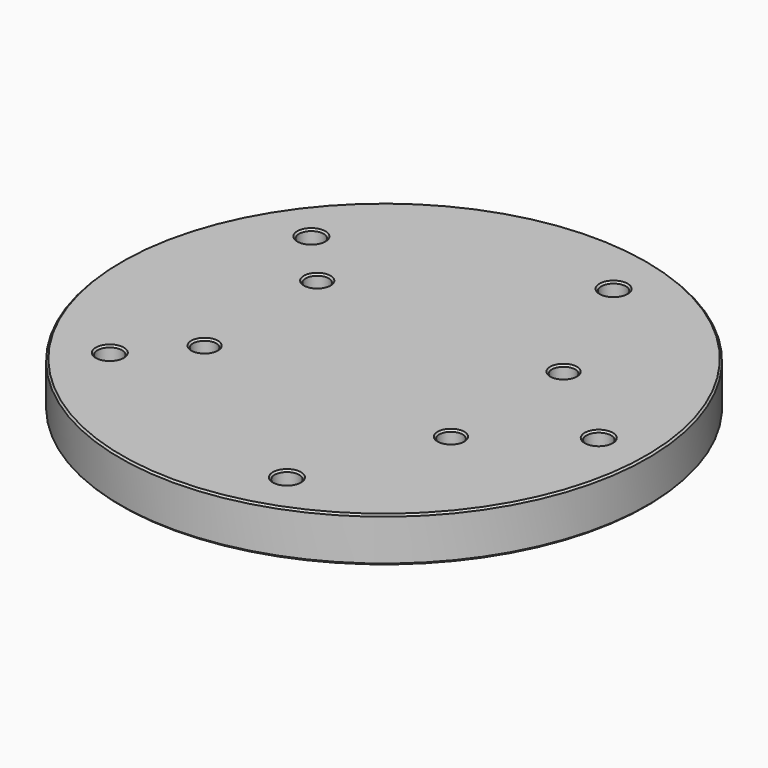
from build123d import *

# Parameters (mm, degrees)
F0_R           = 75
F1_DEPTH       = 12.7
F2_D           = 6.6
F2_CBORE_D     = 11.25
F2_CBORE_DEPTH = 6
F4_D           = 7
F5_SIZE        = 0.5
F7_ANGLE       = -90


with BuildPart() as f1:
    # F0 (on Top) → F1 (new body)
    with BuildSketch(Plane.XY):
        Circle(F0_R)
    extrude(amount=F1_DEPTH)

    # F2 (through all)
    with Locations(Plane(origin=(0, 0, 0), x_dir=(1, 0, 0), z_dir=(0, 0, -1))):
        with Locations((-20, -35), (20, -35), (-20, 35), (20, 35)):
            CounterBoreHole(F2_D / 2, F2_CBORE_D / 2, F2_CBORE_DEPTH)

    # F4 (through all)
    with Locations(Plane.XY.offset(12.7)):
        with Locations((0, 61), (58, 18.8), (35.8, -49.3), (-35.8, -49.3), (-58, 18.8)):
            Hole(F4_D / 2)

    # F5
    f5_edges = [f1.edges().sort_by_distance(p)[0] for p in [
        (-75, 0, 12.7),
        (-39.3, -49.3, 12.7),
        (-23.3, -35, 12.7),
        (16.7, -35, 12.7),
        (32.3, -49.3, 12.7),
        (-61.5, 18.8, 12.7),
        (-23.3, 35, 12.7),
        (16.7, 35, 12.7),
        (54.5, 18.8, 12.7),
        (-3.5, 61, 12.7),
        (-75, 0, 0),
        (-39.3, -49.3, 0),
        (-25.625, -35, 0),
        (14.375, -35, 0),
        (32.3, -49.3, 0),
        (-61.5, 18.8, 0),
        (-25.625, 35, 0),
        (14.375, 35, 0),
        (54.5, 18.8, 0),
        (-3.5, 61, 0),
    ]]
    chamfer(f5_edges, length=F5_SIZE)


with BuildPart() as f1_1:
    # F7: moved
    add(f1.part.rotate(Axis((0, 0, 4.841263406), (0, 0, 1)), F7_ANGLE))


solid = f1_1.part
